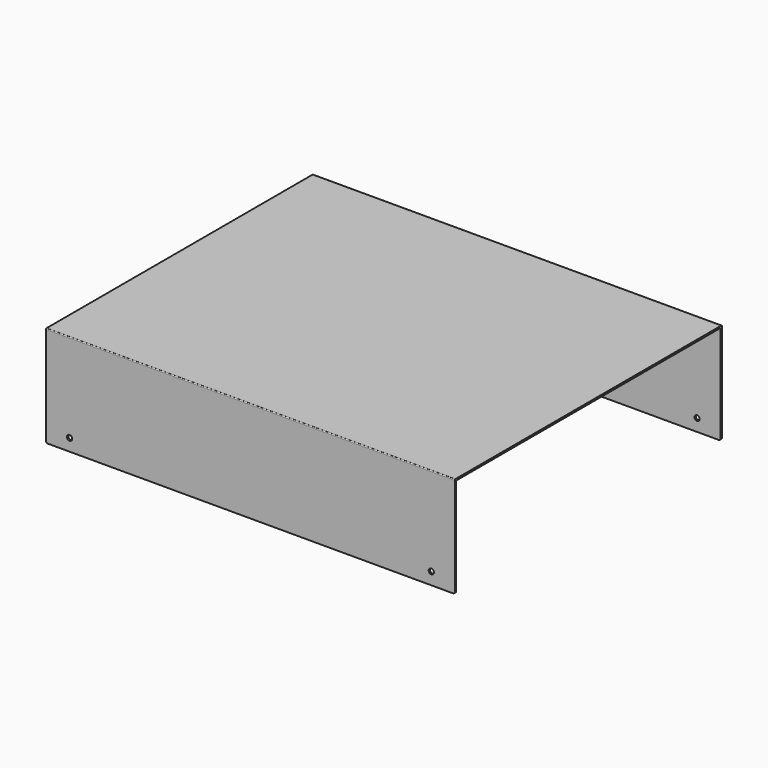
from build123d import *

# Parameters (mm, degrees)
F0_W     = 235
F0_H     = 190
F1_DEPTH = 1
F2_W     = 235
F2_H     = 1
F3_DEPTH = 58
F4_R     = 1.5
F5_DEPTH = 192.001
F6_R     = 0.5
F7_R     = 1


with BuildPart() as f1:
    # F0 (on Top) → F1 (new body)
    with BuildSketch(Plane.XY):
        Rectangle(F0_W, F0_H)
    extrude(amount=F1_DEPTH)

    # F2 (on face) → F3 (join)
    with BuildSketch(Plane.XY.offset(1)):
        with Locations((0, -95.5)):
            Rectangle(F2_W, F2_H)
        with Locations((0, 95.5)):
            Rectangle(F2_W, F2_H)
    extrude(amount=-F3_DEPTH)

    # F4 (on face) → F5 (cut, through all)
    with BuildSketch(Plane.XZ.offset(96)):
        with Locations((-104, -50)):
            Circle(F4_R)
        with Locations((104, -50)):
            Circle(F4_R)
    extrude(amount=-F5_DEPTH, mode=Mode.SUBTRACT)

    # F6
    f6_edges = [f1.edges().sort_by_distance(p)[0] for p in [
        (0, -96, 1),
        (0, 96, 1),
        (0, -95, 0),
        (0, 95, 0),
    ]]
    fillet(f6_edges, radius=F6_R)

    # F7
    f7_edges = [f1.edges().sort_by_distance(p)[0] for p in [
        (-117.5, -95.5, -57),
        (117.5, -95.5, -57),
        (117.5, 95.5, -57),
        (-117.5, 95.5, -57),
    ]]
    fillet(f7_edges, radius=F7_R)


solid = f1.part
